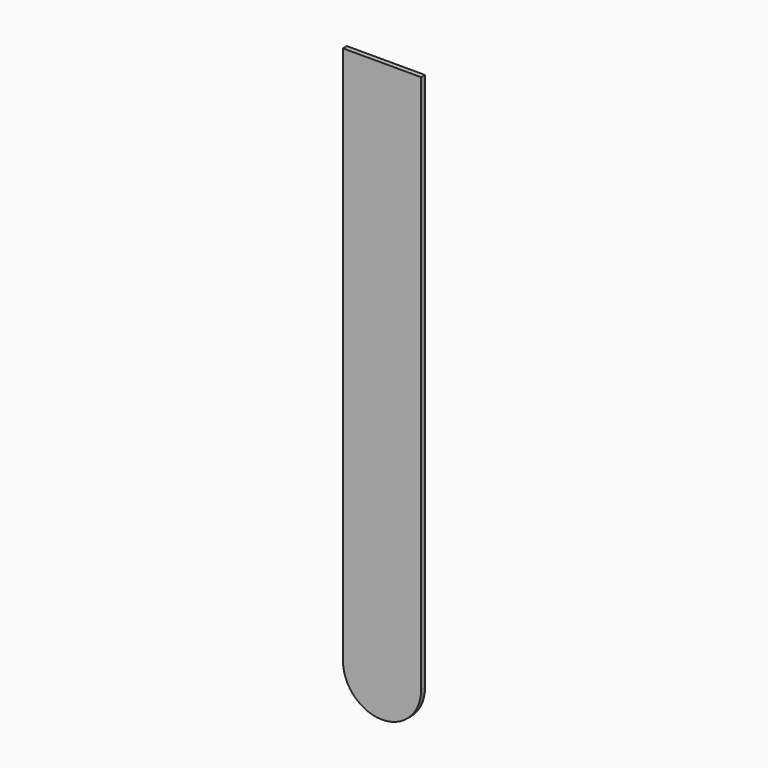
from build123d import *

# Parameters (mm, degrees)
F0_W     = 20
F0_H     = 138
F1_DEPTH = 1.25


with BuildPart() as f1:
    # F0 (on Front) → F1 (new body)
    with BuildSketch(Plane.XZ):
        Rectangle(F0_W, F0_H)
        with BuildLine():
            Line((10, -69), (-10, -69))
            ThreePointArc((-10, -69), (0, -79), (10, -69))
        make_face()
    extrude(amount=F1_DEPTH)


solid = f1.part
